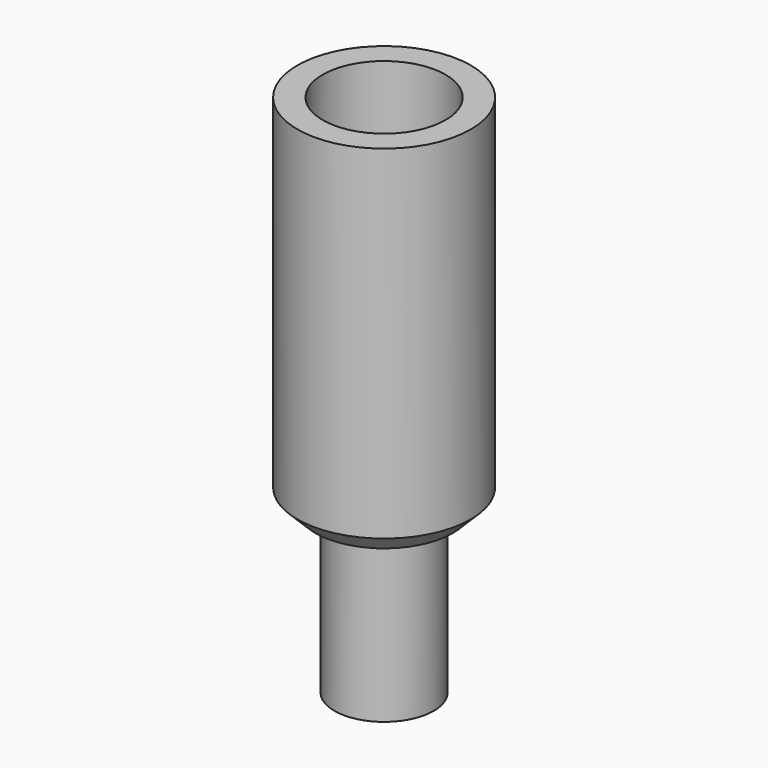
from build123d import *

# Parameters (mm, degrees)
F0_R     = 2.75
F0_R_2   = 1.5
F1_DEPTH = 9
F0_R_3   = 3.4
F2_DEPTH = 1
F0_R_4   = 4.8
F3_DEPTH = 20
F4_SIZE  = 1
F5_SIZE  = 0.3


with BuildPart() as f1:
    # F0 (on Top) → F1 (new body)
    with BuildSketch(Plane.XY):
        Circle(F0_R)
        Circle(F0_R_2, mode=Mode.SUBTRACT)
    extrude(amount=-F1_DEPTH)

    # F0 (on Top) → F2 (join)
    with BuildSketch(Plane.XY):
        Circle(F0_R_3)
        Circle(F0_R, mode=Mode.SUBTRACT)
        Circle(F0_R)
        Circle(F0_R_2, mode=Mode.SUBTRACT)
    extrude(amount=F2_DEPTH)

    # F0 (on Top) → F3 (join)
    with BuildSketch(Plane.XY):
        Circle(F0_R_4)
        Circle(F0_R_3, mode=Mode.SUBTRACT)
    extrude(amount=F3_DEPTH)

    # F4
    f4_edges = [f1.edges().sort_by_distance(p)[0] for p in [
        (-4.8, 0, 0),
    ]]
    chamfer(f4_edges, length=F4_SIZE)

    # F5
    f5_edges = [f1.edges().sort_by_distance(p)[0] for p in [
        (-1.5, 0, 1),
    ]]
    chamfer(f5_edges, length=F5_SIZE)


solid = f1.part
